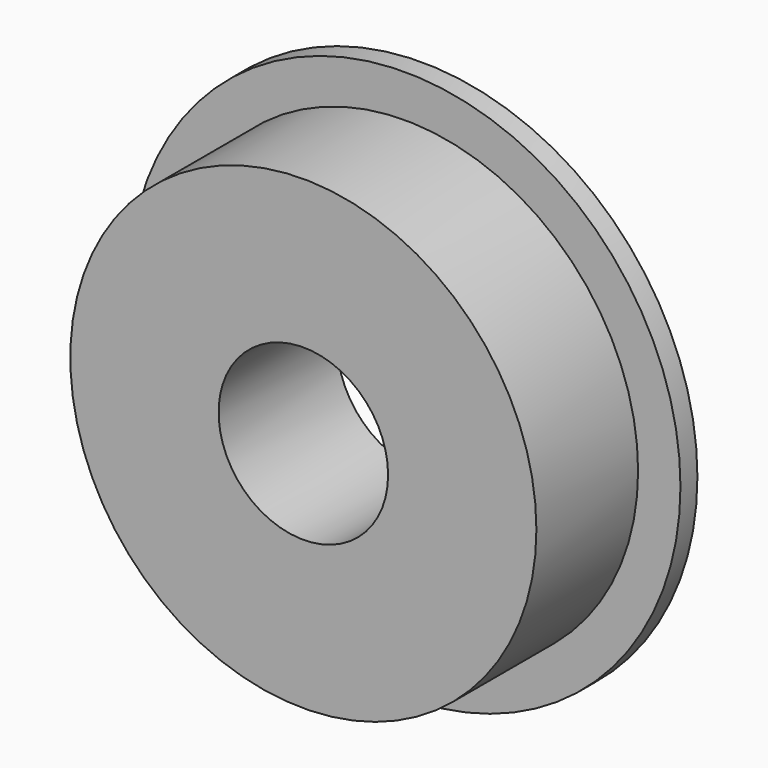
from build123d import *


with BuildPart() as part:
    # Sketch → Revolve (revolve)
    with BuildSketch(Plane.XY):
        Polygon((4, 7), (13, 7), (13, 6), (11, 6), (11, 0), (4, 0), align=None)
    revolve(axis=Axis((0, 0, 0), (0, 1, 0)))


solid = part.part
